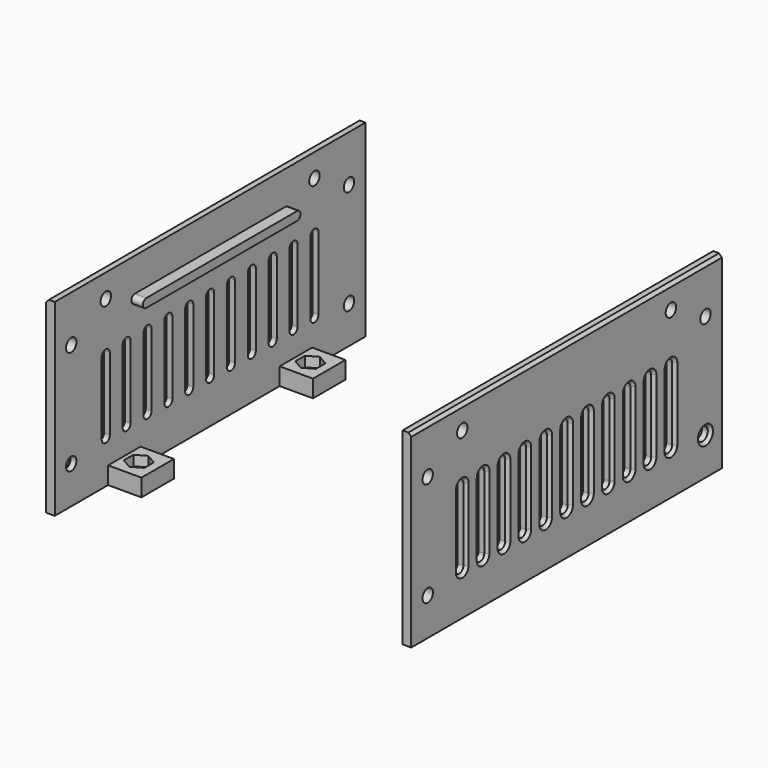
from build123d import *

# Parameters (mm, degrees)
SKETCH002_W         = 3
SKETCH002_H         = 65
PAD001_DEPTH        = 67
SKETCH003_W         = 11.5
SKETCH003_H         = 14
SKETCH003_R         = 2.4
PAD002_DEPTH        = 6
POCKET_DEPTH        = 3.5
SKETCH015_R         = 2.25
POCKET006_DEPTH     = 313.775122
SKETCH016_R         = 2.25
POCKET007_DEPTH     = 3.001
POCKET008_DEPTH     = 14.501
LINEARPATTERN_COUNT = 11
LINEARPATTERN_PITCH = 9
CHAMFER001_SIZE     = 1
CHAMFER006_SIZE     = 1
PAD013_DEPTH        = 4
CHAMFER022_SIZE     = 1
ARRAY003_COUNT      = 2


with BuildPart() as sideplate_array:
    # Sketch002 → Pad001 (new body, symmetric)
    with BuildSketch(Plane.XZ):
        with Locations((-61.5, 35.55)):
            Rectangle(SKETCH002_W, SKETCH002_H)
    extrude(amount=PAD001_DEPTH, both=True)

    # Sketch003 (on Face1 of Pad001) → Pad002 (join)
    with BuildSketch(Plane(origin=(0, 0, 3.05), x_dir=(1, 0, 0), z_dir=(0, 0, -1))):
        with Locations((-54.25, 37)):
            Rectangle(SKETCH003_W, SKETCH003_H)
        with Locations((-55, 37)):
            Circle(SKETCH003_R, mode=Mode.SUBTRACT)
    pad002 = extrude(amount=-PAD002_DEPTH)

    # Mirrored: Pad002 across XZ
    add(pad002.mirror(Plane.XZ))

    # Sketch004 (on Face12 of Mirrored) → Pocket (cut)
    with BuildSketch(Plane(origin=(0, 0, 9.05), x_dir=(-1, 0, 0), z_dir=(0, 0, 1))):
        Polygon((58.55, 34.950407), (58.55, 39.049593), (55, 41.099187), (51.45, 39.049593), (51.45, 34.950407), (55, 32.900813), align=None)
    pocket = extrude(amount=-POCKET_DEPTH, mode=Mode.SUBTRACT)

    # Mirrored001: Pocket across XZ
    add(pocket.mirror(Plane.XZ), mode=Mode.SUBTRACT)

    # Sketch015 (on Face5 of Mirrored001) → Pocket006 (cut, through all)
    with BuildSketch(Plane(origin=(-63, 0, 0), x_dir=(0, 0, -1), z_dir=(-1, 0, 0))):
        with Locations((-16, 59.9)):
            Circle(SKETCH015_R)
        with Locations((-52.05, 59.9)):
            Circle(SKETCH015_R)
    pocket006 = extrude(amount=-POCKET006_DEPTH, mode=Mode.SUBTRACT)

    # Mirrored003: Pocket006 across XZ
    add(pocket006.mirror(Plane.XZ), mode=Mode.SUBTRACT)

    # Sketch016 (on Face2 of Mirrored003) → Pocket007 (cut, through all)
    with BuildSketch(Plane(origin=(-60, 0, 0), x_dir=(0, 0, 1), z_dir=(1, 0, 0))):
        with Locations((60.05, 45)):
            Circle(SKETCH016_R)
        with Locations((60.05, -45)):
            Circle(SKETCH016_R)
    extrude(amount=-POCKET007_DEPTH, mode=Mode.SUBTRACT)

    # Sketch017 (on Face5 of Pocket007) → Pocket008 (cut, through all)
    with BuildSketch(Plane(origin=(-63, 0, 0), x_dir=(0, 0, -1), z_dir=(-1, 0, 0))):
        with BuildLine():
            ThreePointArc((-43, 46.75), (-44.75, 45), (-43, 43.25))
            Line((-43, 43.25), (-18, 43.25))
            ThreePointArc((-18, 43.25), (-16.25, 45), (-18, 46.75))
            Line((-43, 46.75), (-18, 46.75))
        make_face()
    pocket008 = extrude(amount=-POCKET008_DEPTH, mode=Mode.SUBTRACT)

    # LinearPattern: Pocket008 ×11
    with Locations(*[(0, i * LINEARPATTERN_PITCH, 0) for i in range(1, LINEARPATTERN_COUNT)]):
        add(pocket008, mode=Mode.SUBTRACT)

    # Chamfer001
    chamfer001_edges = [sideplate_array.edges().sort_by_distance(p)[0] for p in [
        (-63, -18, 16.25),
        (-63, -18, 44.75),
        (-63, -34.25, 30.5),
        (-63, 1.75, 30.5),
        (-63, 19.75, 30.5),
        (-63, 10.75, 30.5),
        (-63, 28.75, 30.5),
        (-63, -59.9, 18.25),
        (-63, -45, 44.75),
        (-63, 45, 44.75),
        (-63, 36, 44.75),
    ]]
    chamfer(chamfer001_edges, length=CHAMFER001_SIZE)

    # Chamfer006
    chamfer006_edges = [sideplate_array.edges().sort_by_distance(p)[0] for p in [
        (-63, 0, 68.05),
    ]]
    chamfer(chamfer006_edges, length=CHAMFER006_SIZE)

    # Sketch032 (on Face57 of Chamfer006) → Pad013 (join)
    with BuildSketch(Plane(origin=(-60, 0, 0), x_dir=(0, 0, 1), z_dir=(1, 0, 0))):
        with BuildLine():
            ThreePointArc((56.5, 32.5), (55, 34), (53.5, 32.5))
            Line((53.5, 32.5), (53.5, -32.5))
            ThreePointArc((53.5, -32.5), (55, -34), (56.5, -32.5))
            Line((56.5, 32.5), (56.5, -32.5))
        make_face()
    extrude(amount=PAD013_DEPTH)

    # Chamfer022
    chamfer022_edges = [sideplate_array.edges().sort_by_distance(p)[0] for p in [
        (-63, -7.25, 30.5),
        (-63, -25.25, 30.5),
    ]]
    chamfer(chamfer022_edges, length=CHAMFER022_SIZE)


with BuildPart() as array003_copy1:
    # Array003: instance of Sideplate array
    add(sideplate_array.part.rotate(Axis((0, 0, 0), (0, 0, 1)), 1 * 360 / ARRAY003_COUNT))


solid = Compound([sideplate_array.part, array003_copy1.part])
